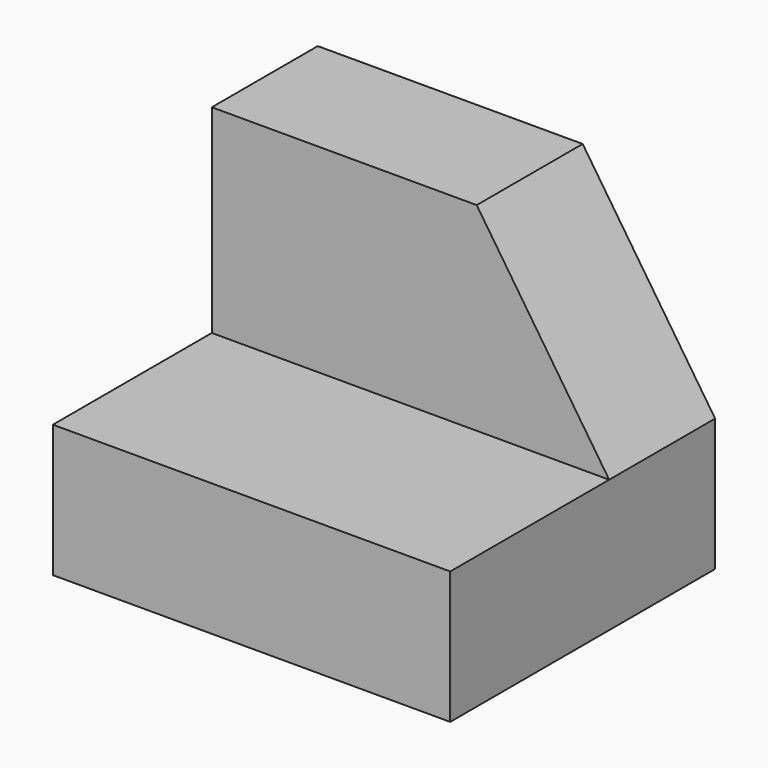
from build123d import *

# Parameters (mm, degrees)
F1_DEPTH = 38.1
F3_DEPTH = 25.4


with BuildPart() as f1:
    # F0 (on Right) → F1 (new body)
    with BuildSketch(Plane.YZ):
        Polygon((-34.584866, 42.208651), (-47.284866, 42.208651), (-47.284866, 23.158651), (-66.334866, 23.158651), (-66.334866, 10.458651), (-34.584866, 10.458651), align=None)
    extrude(amount=F1_DEPTH)

    # F2 (on face) → F3 (cut)
    with BuildSketch(Plane.XZ.offset(47.284866)):
        Polygon((38.1, 42.208651), (25.4, 42.208651), (38.1, 23.158651), align=None)
    extrude(amount=-F3_DEPTH, mode=Mode.SUBTRACT)


solid = f1.part
